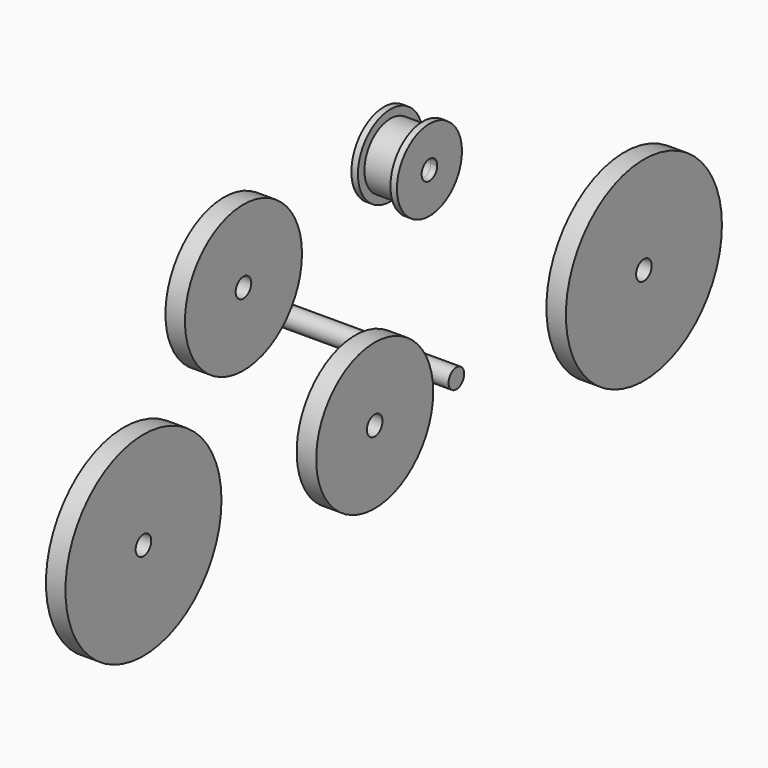
from build123d import *

# Parameters (mm, degrees)
F0_R      = 22.5
F1_DEPTH  = 6
F2_D      = 6
F3_R      = 30
F4_DEPTH  = 6
F5_D      = 6
F6_R      = 3
F7_DEPTH  = 70
F8_R      = 30
F9_DEPTH  = 6
F10_D     = 6
F11_R     = 22.5
F12_DEPTH = 6
F13_D     = 6
F14_R     = 10
F15_DEPTH = 10
F16_D     = 6
F17_R     = 12.5
F17_R_2   = 10
F17_R_3   = 3
F18_DEPTH = 2
F19_R     = 12.5
F19_R_2   = 10
F20_DEPTH = 2
F21_D     = 6


with BuildPart() as f1:
    # F0 (on Right) → F1 (new body)
    with BuildSketch(Plane.YZ):
        Circle(F0_R)
    extrude(amount=-F1_DEPTH)

    # F2 (through all)
    with Locations(Plane.YZ):
        with Locations((0, 0)):
            Hole(F2_D / 2)


with BuildPart() as f4:
    # F3 (on Right) → F4 (new body)
    with BuildSketch(Plane.YZ):
        with Locations((103.5167500303, 0)):
            Circle(F3_R)
    extrude(amount=-F4_DEPTH)

    # F5 (through all)
    with Locations(Plane.YZ):
        with Locations((103.5167500303, 0)):
            Hole(F5_D / 2)


with BuildPart() as f7:
    # F6 (on Right) → F7 (new body)
    with BuildSketch(Plane.YZ):
        with Locations((31.4075189506, 0)):
            Circle(F6_R)
    extrude(amount=-F7_DEPTH)


with BuildPart() as f9:
    # F8 (on Right) → F9 (new body)
    with BuildSketch(Plane.YZ):
        with Locations((-96.4105576277, 8.7217288092)):
            Circle(F8_R)
    extrude(amount=F9_DEPTH)

    # F10 (through all)
    with Locations(Plane(origin=(0, 0, 0), x_dir=(0, 1, 0), z_dir=(-1, 0, 0))):
        with Locations((-96.4105576277, -8.7217288092)):
            Hole(F10_D / 2)


with BuildPart() as f12:
    # F11 (on Right) → F12 (new body)
    with BuildSketch(Plane.YZ):
        with Locations((-57.9556971788, 62.8784671426)):
            Circle(F11_R)
    extrude(amount=F12_DEPTH)

    # F13 (through all)
    with Locations(Plane(origin=(0, 0, 0), x_dir=(0, 1, 0), z_dir=(-1, 0, 0))):
        with Locations((-57.9556971788, -62.8784671426)):
            Hole(F13_D / 2)


with BuildPart() as f15:
    # F14 (on Right) → F15 (new body)
    with BuildSketch(Plane.YZ):
        with Locations((6.0516879894, 70.6458836794)):
            Circle(F14_R)
    extrude(amount=F15_DEPTH)

    # F16 (through all)
    with Locations(Plane(origin=(0, 0, 0), x_dir=(0, 1, 0), z_dir=(-1, 0, 0))):
        with Locations((6.0516879894, -70.6458836794)):
            Hole(F16_D / 2)



with BuildPart() as f18:
    # F17 (on face) → F18 (new body)
    with BuildSketch(Plane.YZ.offset(10)):
        with Locations((6.0516879894, 70.6458836794)):
            Circle(F17_R)
        with Locations((6.0516879894, 70.6458836794)):
            Circle(F17_R_2, mode=Mode.SUBTRACT)
        with Locations((6.0516879894, 70.6458836794)):
            Circle(F17_R_2)
        with Locations((6.0516879894, 70.6458836794)):
            Circle(F17_R_3, mode=Mode.SUBTRACT)
    extrude(amount=F18_DEPTH)


with BuildPart() as f15_1:
    add(f15.part)

    add(f18.part)  # F20 merges F18
    # F19 (on face) + F14 (on Right) → F20 (join)
    with BuildSketch(Plane.YZ):
        with Locations((6.0434634797, 70.6798732281)):
            Circle(F19_R)
        with Locations((6.0516879894, 70.6458836794)):
            Circle(F19_R_2, mode=Mode.SUBTRACT)
    with BuildSketch(Plane.YZ):
        with Locations((6.0516879894, 70.6458836794)):
            Circle(F14_R)
    extrude(amount=-F20_DEPTH)

    # F21 (through all)
    with Locations(Plane.YZ):
        with Locations((6.0516879894, 70.6458836794)):
            Hole(F21_D / 2)


solid = Compound([f1.part, f4.part, f7.part, f9.part, f12.part, f15_1.part])
